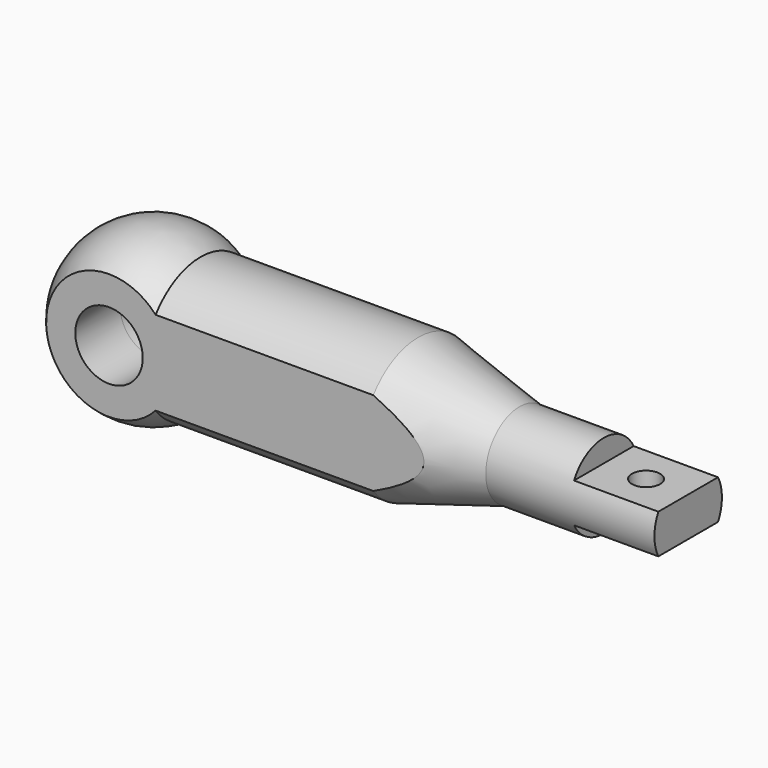
from build123d import *

# Parameters (mm, degrees)
F0_W           = 38.7084380241
F0_H           = 12.5
F0_W_2         = 30
F0_H_2         = 7.5
F2_W           = 15
F2_H           = 4
F3_DEPTH       = 15.001
F3_DEPTH_BACK  = 15.001
F4_R           = 2.5
F5_DEPTH       = 18.501
F8_DEPTH       = 15.001
F9_DEPTH       = 15.001
F9_DEPTH_BACK  = 95.001
F6_R           = 6
F10_DEPTH      = 10.001
F10_DEPTH_BACK = 10.001
F11_DEPTH      = 250


with BuildPart() as f1:
    # F0 (on Front) → F1 (revolve)
    with BuildSketch(Plane.XZ):
        with BuildLine():
            Line((-15, 0), (8.2915619759, 0))
            Line((8.2915619759, 0), (8.2915619759, 12.5))
            ThreePointArc((8.2915619759, 12.5), (-7.0931858273, 13.2169101843), (-15, 0))
        make_face()
        with Locations((27.6457809879, 6.25)):
            Rectangle(F0_W, F0_H)
        Polygon((47, 0), (65, 0), (65, 7.5), (47, 12.5), align=None)
        with Locations((80, 3.75)):
            Rectangle(F0_W_2, F0_H_2)
    revolve(axis=Axis((27.6457809879, 0, 0), (1, 0, 0)))

    # F2 (on Front) → F3 (cut, two sides)
    with BuildSketch(Plane.XZ) as f3_sk:
        with Locations((87.5, 5.5)):
            Rectangle(F2_W, F2_H)
        with Locations((87.5, -5.5)):
            Rectangle(F2_W, F2_H)
    extrude(amount=-F3_DEPTH, mode=Mode.SUBTRACT)
    extrude(f3_sk.sketch, amount=F3_DEPTH_BACK, mode=Mode.SUBTRACT)

    # F4 (on face) → F5 (cut, through all)
    with BuildSketch(Plane.XY.offset(3.5)):
        with Locations((87.5, 0)):
            Circle(F4_R)
    extrude(amount=-F5_DEPTH, mode=Mode.SUBTRACT)

    # F7 (on Right) → F8 (cut, through all)
    with BuildSketch(Plane.YZ):
        with BuildLine():
            ThreePointArc((10, -11.1803398875), (15, 0), (10, 11.1803398875))
            Line((10, 11.1803398875), (10, -11.1803398875))
        make_face()
        with BuildLine():
            Line((-10, -11.1803398875), (-10, 11.1803398875))
            ThreePointArc((-10, 11.1803398875), (-15, 0), (-10, -11.1803398875))
        make_face()
    extrude(amount=-F8_DEPTH, mode=Mode.SUBTRACT)

    # F7 (on Right) → F9 (cut, two sides)
    with BuildSketch(Plane.YZ) as f9_sk:
        with BuildLine():
            ThreePointArc((10, -11.1803398875), (15, 0), (10, 11.1803398875))
            Line((10, 11.1803398875), (10, -11.1803398875))
        make_face()
        with BuildLine():
            Line((-10, -11.1803398875), (-10, 11.1803398875))
            ThreePointArc((-10, 11.1803398875), (-15, 0), (-10, -11.1803398875))
        make_face()
    extrude(amount=-F9_DEPTH, mode=Mode.SUBTRACT)
    extrude(f9_sk.sketch, amount=F9_DEPTH_BACK, mode=Mode.SUBTRACT)

    # F6 (on Front) → F10 (cut, two sides)
    with BuildSketch(Plane.XZ) as f10_sk:
        Circle(F6_R)
    extrude(amount=F10_DEPTH, mode=Mode.SUBTRACT)
    extrude(f10_sk.sketch, amount=-F10_DEPTH_BACK, mode=Mode.SUBTRACT)

    # F6 (on Front) → F11 (cut, symmetric)
    with BuildSketch(Plane.XZ):
        Circle(F6_R)
    extrude(amount=F11_DEPTH, both=True, mode=Mode.SUBTRACT)


solid = f1.part
